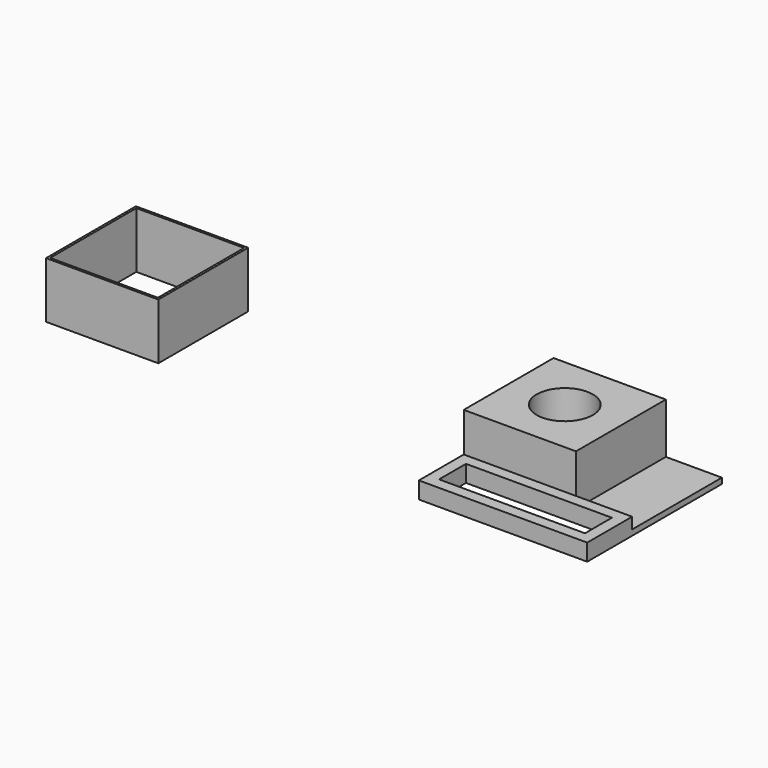
from build123d import *

# Parameters (mm, degrees)
F0_W     = 20
F0_H     = 20
F0_R     = 5
F1_DEPTH = 10
F0_W_2   = 10
F2_DEPTH = 1
F3_DEPTH = 3
F0_W_3   = 19.2
F0_H_2   = 19.2
F4_DEPTH = 10


with BuildPart() as f1:
    # F0 (on Top) → F1 (new body)
    with BuildSketch(Plane.XY):
        Rectangle(F0_W, F0_H)
        Circle(F0_R, mode=Mode.SUBTRACT)
    extrude(amount=F1_DEPTH)

    # F0 (on Top) → F2 (join)
    with BuildSketch(Plane.XY):
        with Locations((15, 0)):
            Rectangle(F0_W_2, F0_H)
    extrude(amount=F2_DEPTH)

    # F0 (on Top) → F3 (join)
    with BuildSketch(Plane.XY):
        Polygon((20, -10), (10, -10), (-10, -10), (-10, -20), (20, -20), align=None)
        Polygon((18, -18), (-8, -18), (-8, -12), (10, -12), (18, -12), align=None, mode=Mode.SUBTRACT)
    extrude(amount=F3_DEPTH)


with BuildPart() as f4:
    # F0 (on Top) → F4 (new body)
    with BuildSketch(Plane.XY):
        with Locations((-73.945356, -0.595633)):
            Rectangle(F0_W, F0_H)
        with Locations((-73.945356, -0.595633)):
            Rectangle(F0_W_3, F0_H_2, mode=Mode.SUBTRACT)
    extrude(amount=F4_DEPTH)


solid = Compound([f1.part, f4.part])
